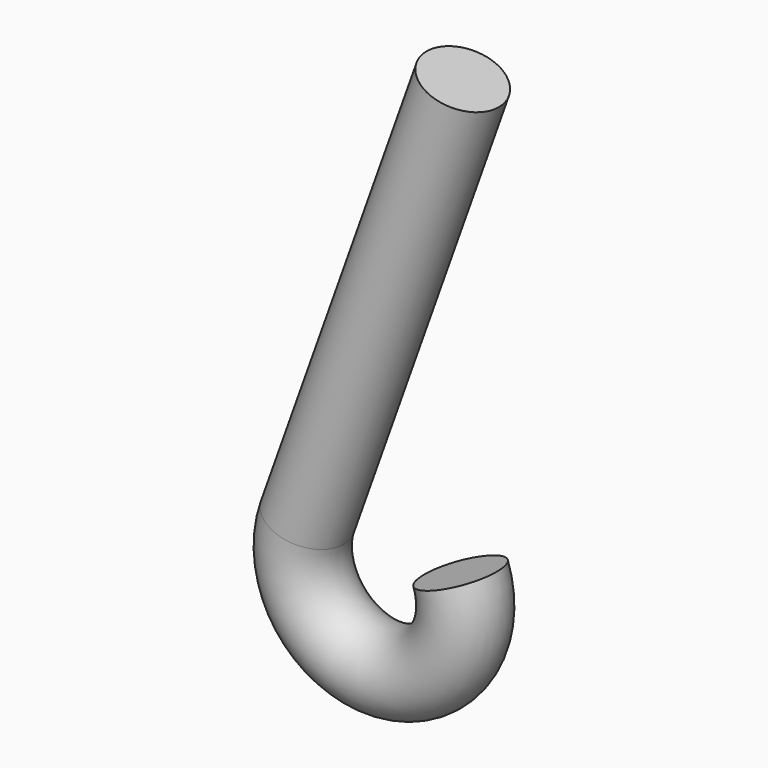
from build123d import *

# Parameters (mm, degrees)
F1_R = 4.807815


with BuildPart() as f2:
    # F2: sweep along a path in F0
    with BuildLine(Plane.XZ) as f2_path:
        Line((10.045403, 57.940128), (-9.418997, 3.358943))
        ThreePointArc((-9.418997, 3.358943), (0, -10), (9.418997, 3.358943))
    # F1 (on Top) → F2 (sweep)
    with BuildSketch(Plane.XY):
        with Locations((-10.187372, 0)):
            Circle(F1_R)
    sweep(path=f2_path.line)


solid = f2.part
